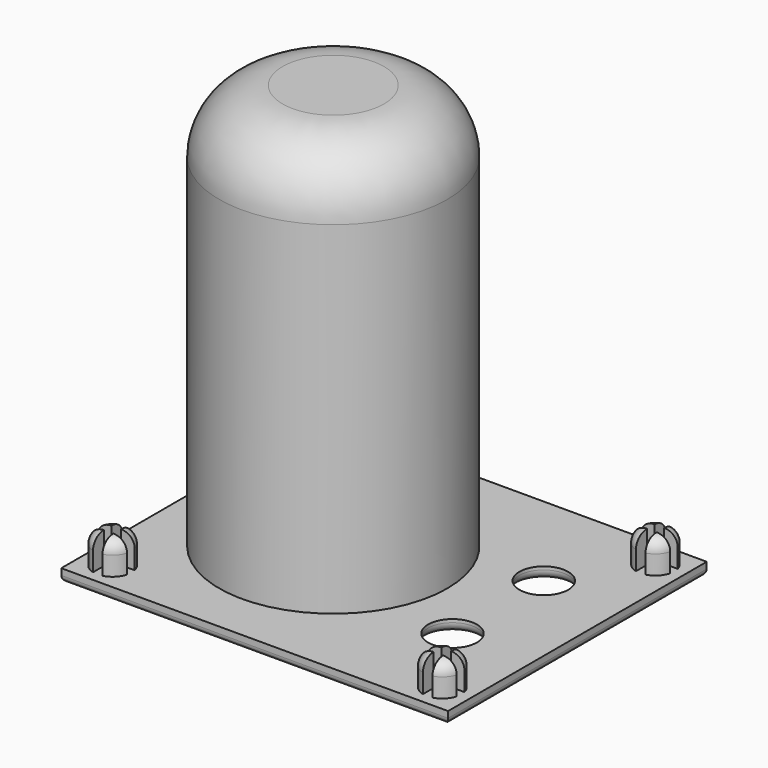
from build123d import *

# Parameters (mm, degrees)
SKETCH065_W                   = 61
SKETCH065_H                   = 51
PAD027_DEPTH                  = 2
SKETCH066_R                   = 3
PAD028_DEPTH                  = 5
SKETCH066_MIRRORED006_2_R     = 3
PAD028_MIRRORED006_2_DEPTH    = 5
FILLET029_R                   = 2
FILLET030_R                   = 1
POCKET019_DEPTH               = 5
POCKET019_MIRRORED008_2_DEPTH = 5
SKETCH068_R                   = 18
PAD029_DEPTH                  = 66
SKETCH069_R                   = 17
SKETCH069_R_2                 = 3.85
POCKET020_DEPTH               = 64
FILLET031_R                   = 10
FILLET032_R                   = 1.5


with BuildPart() as part:
    # Sketch065 → Pad027 (new body)
    with BuildSketch(Plane.XY):
        Rectangle(SKETCH065_W, SKETCH065_H)
    extrude(amount=PAD027_DEPTH)

    # Sketch066 (on DatumPlane) → Pad028 (join)
    with BuildSketch(Plane.XY.offset(2)):
        with Locations((-26, 21)):
            Circle(SKETCH066_R)
    pad028 = extrude(amount=PAD028_DEPTH)

    # Sketch066 Mirrored006 2 → Pad028 Mirrored006 2 (add)
    with BuildSketch(Plane(origin=(0, 0, 2), x_dir=(-1, 0, 0), z_dir=(0, 0, -1))):
        with Locations((-26, 21)):
            Circle(SKETCH066_MIRRORED006_2_R)
    pad028_mirrored006_2 = extrude(amount=-PAD028_MIRRORED006_2_DEPTH)

    # Mirrored007: Pad028, Pad028 Mirrored006 2 across Sketch066 H_Axis
    add(pad028.mirror(Plane(origin=(0, 0, 2), x_dir=(0, 0, 1), z_dir=(0, 1, 0))))
    add(pad028_mirrored006_2.mirror(Plane(origin=(0, 0, 2), x_dir=(0, 0, 1), z_dir=(0, 1, 0))))

    # Fillet029
    fillet029_edges = [part.edges().sort_by_distance(p)[0] for p in [
        (29, 21, 7),
        (29, -21, 7),
        (-29, -21, 7),
        (-29, 21, 7),
    ]]
    fillet(fillet029_edges, radius=FILLET029_R)

    # Fillet030
    fillet030_edges = [part.edges().sort_by_distance(p)[0] for p in [
        (0, 25.5, 0),
        (30.5, 0, 0),
        (0, -25.5, 0),
        (-30.5, 0, 0),
    ]]
    fillet(fillet030_edges, radius=FILLET030_R)

    # Sketch067 (on DatumPlane) → Pocket019 (cut)
    with BuildSketch(Plane.XY.offset(7)):
        Polygon((-29.265642, -20.28286), (-26.765642, -20.28286), (-26.765642, -17.78286), (-25.265642, -17.78286), (-25.265642, -20.28286), (-22.765642, -20.28286), (-22.765642, -21.78286), (-25.265642, -21.78286), (-25.265642, -24.28286), (-26.765642, -24.28286), (-26.765642, -21.78286), (-29.265642, -21.78286), align=None)
    pocket019 = extrude(amount=-POCKET019_DEPTH, mode=Mode.SUBTRACT)

    # Sketch067 Mirrored008 2 → Pocket019 Mirrored008 2 (cut)
    with BuildSketch(Plane(origin=(0, 0, 7), x_dir=(-1, 0, 0), z_dir=(0, 0, -1))):
        Polygon((-29.265642, -20.28286), (-26.765642, -20.28286), (-26.765642, -17.78286), (-25.265642, -17.78286), (-25.265642, -20.28286), (-22.765642, -20.28286), (-22.765642, -21.78286), (-25.265642, -21.78286), (-25.265642, -24.28286), (-26.765642, -24.28286), (-26.765642, -21.78286), (-29.265642, -21.78286), align=None)
    pocket019_mirrored008_2 = extrude(amount=POCKET019_MIRRORED008_2_DEPTH, mode=Mode.SUBTRACT)

    # Mirrored009: Pocket019, Pocket019 Mirrored008 2 across Sketch067 H_Axis
    add(pocket019.mirror(Plane(origin=(0, 0, 7), x_dir=(0, 0, 1), z_dir=(0, 1, 0))), mode=Mode.SUBTRACT)
    add(pocket019_mirrored008_2.mirror(Plane(origin=(0, 0, 7), x_dir=(0, 0, 1), z_dir=(0, 1, 0))), mode=Mode.SUBTRACT)


with BuildPart() as part_1:
    # Body026 placement: moved
    add(part.part.moved(Location((0, -65, 0))))


with BuildPart() as part_2:
    # Clone018 placement: moved
    add(part_1.part.moved(Location((0, 65, 0))))

    # Sketch068 (on DatumPlane) → Pad029 (new body)
    with BuildSketch(Plane(origin=(-8, 0, 0), x_dir=(1, 0, 0), z_dir=(0, 0, -1))):
        Circle(SKETCH068_R)
    extrude(amount=-PAD029_DEPTH)

    # Sketch069 (on DatumPlane) → Pocket020 (cut)
    with BuildSketch(Plane(origin=(-8, 0, 0), x_dir=(1, 0, 0), z_dir=(0, 0, -1))):
        Circle(SKETCH069_R)
        with Locations((26, 9)):
            Circle(SKETCH069_R_2)
        with Locations((26, -9)):
            Circle(SKETCH069_R_2)
    extrude(amount=-POCKET020_DEPTH, mode=Mode.SUBTRACT)

    # Fillet031
    fillet031_edges = [part_2.edges().sort_by_distance(p)[0] for p in [
        (-25, 0, 64),
        (-26, 0, 66),
    ]]
    fillet(fillet031_edges, radius=FILLET031_R)

    # Fillet032
    fillet032_edges = [part_2.edges().sort_by_distance(p)[0] for p in [
        (14.15, -9, 0),
        (14.15, 9, 0),
        (-25, 0, 0),
    ]]
    fillet(fillet032_edges, radius=FILLET032_R)


with BuildPart() as part_3:
    # Body027 placement: moved
    add(part_2.part.moved(Location((74, -125, 0))))


solid = part_3.part
